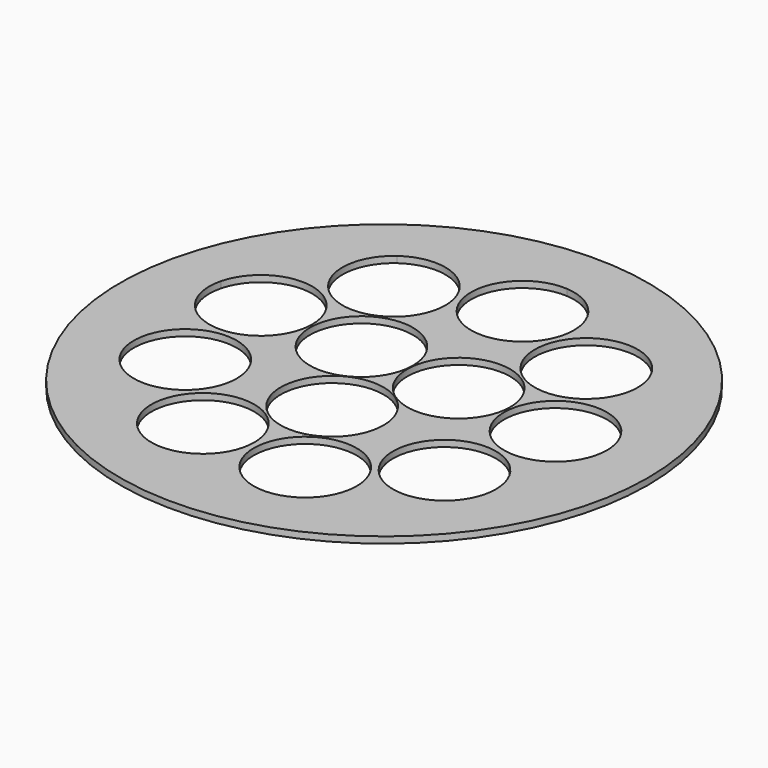
from build123d import *

# Parameters (mm, degrees)
F0_R     = 49.5
F0_R_2   = 9.65
F1_DEPTH = 1.2


with BuildPart() as f1:
    # F0 (on Top) → F1 (new body)
    with BuildSketch(Plane.XY):
        Circle(F0_R)
        with BuildLine():
            ThreePointArc((39.291304741, 4.0550427554), (39.4477916826, 2.0302047593), (39.5, 0))
            ThreePointArc((39.5, 0), (37.7631696724, -11.5841709368), (32.7054168965, -22.1496208912))
            ThreePointArc((32.7054168965, -22.1496208912), (23.1574225777, -31.9997465546), (10.8163014141, -37.9902306353))
            ThreePointArc((10.8163014141, -37.9902306353), (-2.8294257614, -39.3985323313), (-16.1338824195, -36.0547893916))
            ThreePointArc((-16.1338824195, -36.0547893916), (-27.4923542695, -28.3623069711), (-35.5348425965, -17.2489118973))
            ThreePointArc((-35.5348425965, -17.2489118973), (-39.291304689, -4.0550432599), (-38.3086555521, 9.6279234413))
            ThreePointArc((-38.3086555521, 9.6279234413), (-32.7054174623, 22.1496200558), (-23.1574236319, 31.9997457917))
            ThreePointArc((-23.1574236319, 31.9997457917), (-10.8163015816, 37.9902305875), (2.8294262423, 39.3985322968))
            ThreePointArc((2.8294262423, 39.3985322968), (16.1338825125, 36.05478935), (27.492354475, 28.3623067719))
            ThreePointArc((27.492354475, 28.3623067719), (35.5348428386, 17.2489113986), (39.291304741, 4.0550427554))
        make_face(mode=Mode.SUBTRACT)
        with BuildLine():
            ThreePointArc((32.7054168965, -22.1496208912), (37.7631696724, -11.5841709368), (39.5, 0))
            ThreePointArc((39.5, 0), (39.4477916826, 2.0302047593), (39.291304741, 4.0550427554))
            ThreePointArc((39.291304741, 4.0550427554), (35.5348428386, 17.2489113986), (27.492354475, 28.3623067719))
            ThreePointArc((27.492354475, 28.3623067719), (16.1338825125, 36.05478935), (2.8294262423, 39.3985322968))
            ThreePointArc((2.8294262423, 39.3985322968), (-10.8163015816, 37.9902305875), (-23.1574236319, 31.9997457917))
            ThreePointArc((-23.1574236319, 31.9997457917), (-32.7054174623, 22.1496200558), (-38.3086555521, 9.6279234413))
            ThreePointArc((-38.3086555521, 9.6279234413), (-39.291304689, -4.0550432599), (-35.5348425965, -17.2489118973))
            ThreePointArc((-35.5348425965, -17.2489118973), (-27.4923542695, -28.3623069711), (-16.1338824195, -36.0547893916))
            ThreePointArc((-16.1338824195, -36.0547893916), (-2.8294257614, -39.3985323313), (10.8163014141, -37.9902306353))
            ThreePointArc((10.8163014141, -37.9902306353), (23.1574225777, -31.9997465546), (32.7054168965, -22.1496208912))
        make_face()
        with BuildLine():
            ThreePointArc((-2.5423134165, -27.2464675427), (-6.9441537809, -35.3445735212), (-16.1338824195, -36.0547893916))
            ThreePointArc((-16.1338824195, -36.0547893916), (-17.440473052, -19.1483615642), (-2.5423134165, -27.2464675427))
        make_face(mode=Mode.SUBTRACT)
        with BuildLine():
            ThreePointArc((-17.2035456856, -13.0349370582), (-24.6916038721, -22.4396437307), (-35.5348425965, -17.2489118973))
            ThreePointArc((-35.5348425965, -17.2489118973), (-29.0154874991, -3.6302303857), (-17.2035456856, -13.0349370582))
        make_face(mode=Mode.SUBTRACT)
        with Locations((-0.8022675241, -11.1712294229)):
            Circle(F0_R_2, mode=Mode.SUBTRACT)
        with BuildLine():
            ThreePointArc((17.8238378027, -28.7090730532), (15.875210208, -34.5238269668), (10.8163014141, -37.9902306353))
            ThreePointArc((10.8163014141, -37.9902306353), (0.4724653975, -22.8943191396), (17.8238378027, -28.7090730532))
        make_face(mode=Mode.SUBTRACT)
        with BuildLine():
            ThreePointArc((34.3653594719, -16.7383842163), (33.9410451957, -19.5684412699), (32.7054168965, -22.1496208912))
            ThreePointArc((32.7054168965, -22.1496208912), (15.4896737482, -13.9083271628), (34.3653594719, -16.7383842163))
        make_face(mode=Mode.SUBTRACT)
        with BuildLine():
            ThreePointArc((-19.2997054845, 7.275785343), (-30.1347438485, -2.3011757656), (-38.3086555521, 9.6279234413))
            ThreePointArc((-38.3086555521, 9.6279234413), (-27.7646671206, 16.8527464516), (-19.2997054845, 7.275785343))
        make_face(mode=Mode.SUBTRACT)
        with Locations((-9.2734347097, 6.2803987679)):
            Circle(F0_R_2, mode=Mode.SUBTRACT)
        with BuildLine():
            ThreePointArc((-7.8499763471, 24.1820869209), (-21.8890613145, 15.5879939991), (-23.1574236319, 31.9997457917))
            ThreePointArc((-23.1574236319, 31.9997457917), (-13.1108913798, 32.7761798427), (-7.8499763471, 24.1820869209))
        make_face(mode=Mode.SUBTRACT)
        with Locations((10.0757022338, 4.890830655)):
            Circle(F0_R_2, mode=Mode.SUBTRACT)
        with BuildLine():
            ThreePointArc((30.4258676818, 21.4332877102), (11.8894567766, 17.6710807484), (27.492354475, 28.3623067719))
            ThreePointArc((27.492354475, 28.3623067719), (29.6622785871, 25.1954946719), (30.4258676818, 21.4332877102))
        make_face(mode=Mode.SUBTRACT)
        with BuildLine():
            ThreePointArc((39.3422897636, 3.0643806218), (20.0550444483, 2.5683939951), (39.291304741, 4.0550427554))
            ThreePointArc((39.291304741, 4.0550427554), (39.3295350788, 3.5603672485), (39.3422897636, 3.0643806218))
        make_face(mode=Mode.SUBTRACT)
        with BuildLine():
            ThreePointArc((11.7881862137, 29.7733212745), (-4.9255580582, 23.1986717126), (2.8294262423, 39.3985322968))
            ThreePointArc((2.8294262423, 39.3985322968), (9.2019304855, 36.3479708364), (11.7881862137, 29.7733212745))
        make_face(mode=Mode.SUBTRACT)
    extrude(amount=F1_DEPTH)


solid = f1.part
